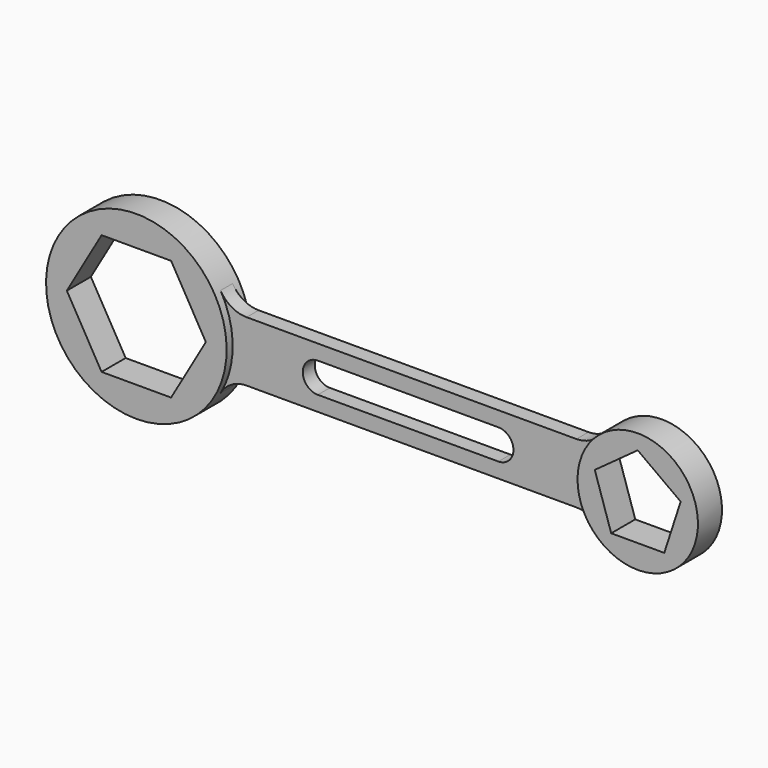
from build123d import *

# Parameters (mm, degrees)
F1_DEPTH = 127
F2_DEPTH = 127
F3_DEPTH = 63.5


with BuildPart() as f1:
    # F0 (on Front) → F1 (new body, symmetric)
    with BuildSketch(Plane.XZ):
        with BuildLine():
            ThreePointArc((659.9113576837, -381), (736.0354796323, -197.2201123681), (762, 0))
            ThreePointArc((762, 0), (736.0354796323, 197.2201123681), (659.9113576837, 381))
            ThreePointArc((659.9113576837, 381), (-762, 0), (659.9113576837, -381))
        make_face()
        Polygon((586.5878734967, 0), (293.2939367483, -508), (-293.2939367483, -508), (-586.5878734967, 0), (-293.2939367483, 508), (293.2939367483, 508), align=None, mode=Mode.SUBTRACT)
    extrude(amount=F1_DEPTH, both=True)


with BuildPart() as f2:
    # F0 (on Front) → F2 (new body, symmetric)
    with BuildSketch(Plane.XZ):
        with BuildLine():
            ThreePointArc((4738.8409793711, 0), (4412.1066009758, 474.5595583531), (3852.2001351811, 338.6666666667))
            ThreePointArc((3852.2001351811, 338.6666666667), (3722.8409793711, 0), (3852.2001351811, -338.6666666667))
            ThreePointArc((3852.2001351811, -338.6666666667), (4412.1066009758, -474.5595583531), (4738.8409793711, 0))
        make_face()
        Polygon((4593.1935120795, 117.7354748569), (4454.7871604945, -308.2354748569), (4006.8947982476, -308.2354748569), (3868.4884466626, 117.7354748569), (4230.8409793711, 381), align=None, mode=Mode.SUBTRACT)
    extrude(amount=F2_DEPTH, both=True)


with BuildPart() as f3:
    # F0 (on Front) → F3 (new body, symmetric)
    with BuildSketch(Plane.XZ):
        with BuildLine():
            ThreePointArc((659.9113576837, 381), (736.0354796323, 197.2201123681), (762, 0))
            ThreePointArc((762, 0), (736.0354796323, -197.2201123681), (659.9113576837, -381))
            ThreePointArc((659.9113576837, -381), (752.881810245, -288.0295474388), (879.881810245, -254))
            Line((879.881810245, -254), (2242.4204896855, -254))
            Line((2242.4204896855, -254), (3662.8797130861, -254))
            ThreePointArc((3662.8797130861, -254), (3766.5747788639, -276.1307839895), (3852.2001351811, -338.6666666667))
            ThreePointArc((3852.2001351811, -338.6666666667), (3722.8409793711, 0), (3852.2001351811, 338.6666666667))
            ThreePointArc((3852.2001351811, 338.6666666667), (3766.5747788639, 276.1307839895), (3662.8797130861, 254))
            Line((3662.8797130861, 254), (2242.4204896855, 254))
            Line((2242.4204896855, 254), (879.881810245, 254))
            ThreePointArc((879.881810245, 254), (752.881810245, 288.0295474388), (659.9113576837, 381))
        make_face()
        with BuildLine():
            Line((1480.4204896855, 127), (2242.4204896855, 127))
            Line((2242.4204896855, 127), (3004.4204896855, 127))
            ThreePointArc((3004.4204896855, 127), (3131.4204896855, 0), (3004.4204896855, -127))
            Line((3004.4204896855, -127), (1480.4204896855, -127))
            ThreePointArc((1480.4204896855, -127), (1353.4204896855, 0), (1480.4204896855, 127))
        make_face(mode=Mode.SUBTRACT)
    extrude(amount=F3_DEPTH, both=True)


solid = Compound([f1.part, f2.part, f3.part])
